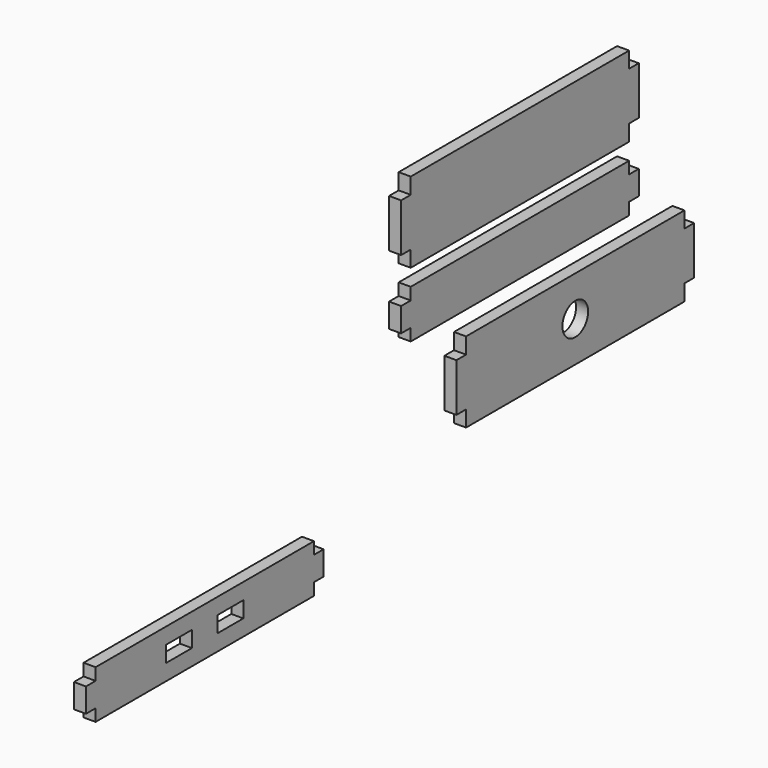
from build123d import *

# Parameters (mm, degrees)
F1_DEPTH = 19.05
F0_R     = 25.4
F0_W     = 50.8
F0_H     = 25.4
F2_DEPTH = 19.05


with BuildPart() as f1:
    # F0 (on Right) → F1 (new body)
    with BuildSketch(Plane.YZ):
        Polygon((-63.541166, 19.05), (-63.541166, 0), (368.258834, 0), (368.258834, 19.05), (387.308834, 19.05), (387.308834, 57.15), (368.258834, 57.15), (368.258834, 76.2), (-63.541166, 76.2), (-63.541166, 57.15), (-82.591166, 57.15), (-82.591166, 19.05), align=None)
    extrude(amount=F1_DEPTH)

    # F0 (on Right) → F2 (join)
    with BuildSketch(Plane.YZ):
        Polygon((-63.541166, 19.05), (-63.541166, 0), (368.258834, 0), (368.258834, 19.05), (387.308834, 19.05), (387.308834, 57.15), (368.258834, 57.15), (368.258834, 76.2), (-63.541166, 76.2), (-63.541166, 57.15), (-82.591166, 57.15), (-82.591166, 19.05), align=None)
        Polygon((-63.541166, 102.67782), (368.258834, 102.67782), (368.258834, 128.07782), (387.308834, 128.07782), (387.308834, 204.27782), (368.258834, 204.27782), (368.258834, 229.67782), (-63.541166, 229.67782), (-63.541166, 204.27782), (-82.591166, 204.27782), (-82.591166, 128.07782), (-63.541166, 128.07782), align=None)
        Polygon((45.865987, -164.356064), (477.665987, -164.356064), (477.665987, -138.956064), (496.715987, -138.956064), (496.715987, -62.756064), (477.665987, -62.756064), (477.665987, -37.356064), (45.865987, -37.356064), (45.865987, -62.756064), (26.815987, -62.756064), (26.815987, -138.956064), (45.865987, -138.956064), align=None)
        with Locations((261.765987, -100.856064)):
            Circle(F0_R, mode=Mode.SUBTRACT)
        Polygon((-686.647534, -257.37715), (-686.647534, -276.42715), (-254.847534, -276.42715), (-254.847534, -257.37715), (-235.797534, -257.37715), (-235.797534, -219.27715), (-254.847534, -219.27715), (-254.847534, -200.22715), (-686.647534, -200.22715), (-686.647534, -219.27715), (-705.697534, -219.27715), (-705.697534, -257.37715), align=None)
        with Locations((-521.547534, -238.32715)):
            Rectangle(F0_W, F0_H, mode=Mode.SUBTRACT)
        with Locations((-419.947534, -238.32715)):
            Rectangle(F0_W, F0_H, mode=Mode.SUBTRACT)
    extrude(amount=F2_DEPTH)


solid = f1.part
